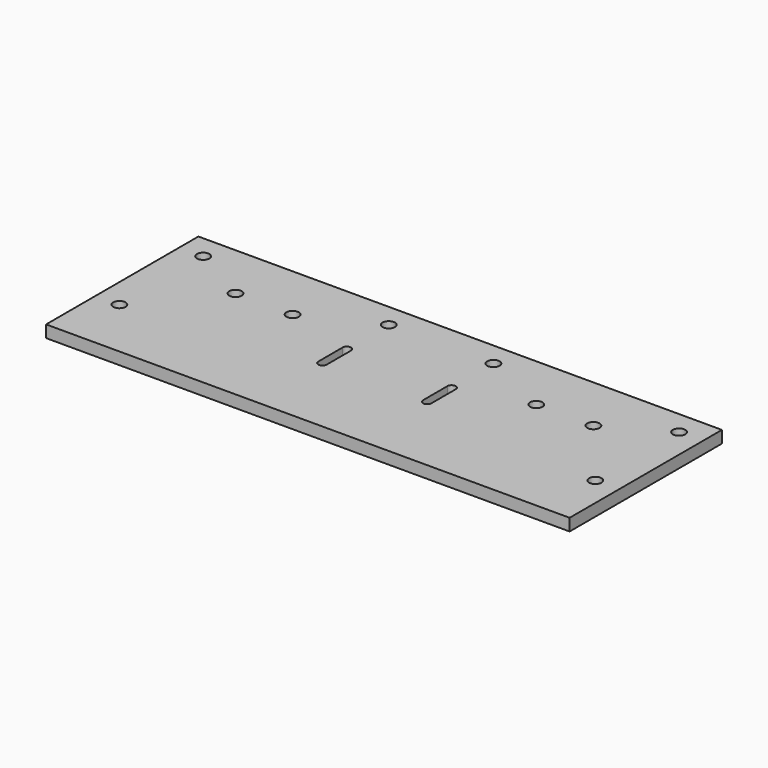
from build123d import *

# Parameters (mm, degrees)
SKETCH003_W     = 275
SKETCH003_H     = 100
PAD_DEPTH       = 6.35
SKETCH_R        = 3.25
POCKET_DEPTH    = 6.351
SKETCH004_R     = 3.25
POCKET001_DEPTH = 6.351
POCKET002_DEPTH = 6.351
SKETCH007_R     = 3.25
POCKET003_DEPTH = 6.351


with BuildPart() as part:
    # Sketch003 → Pad (new body)
    with BuildSketch(Plane(origin=(0, 0, 0), x_dir=(1, 0, 0), z_dir=(0, 0, -1))):
        with Locations((137.5, 50)):
            Rectangle(SKETCH003_W, SKETCH003_H)
    extrude(amount=PAD_DEPTH)

    # Sketch → Pocket (cut, through all)
    with BuildSketch(Plane.XY):
        with Locations((110, -12.5)):
            Circle(SKETCH_R)
        with Locations((165, -12.5)):
            Circle(SKETCH_R)
    extrude(amount=-POCKET_DEPTH, mode=Mode.SUBTRACT)

    # Sketch004 → Pocket001 (cut, through all)
    with BuildSketch(Plane.XY):
        with Locations((12.5, -12.5)):
            Circle(SKETCH004_R)
        with Locations((12.5, -67.5)):
            Circle(SKETCH004_R)
        with Locations((262.5, -12.5)):
            Circle(SKETCH004_R)
        with Locations((262.5, -67.5)):
            Circle(SKETCH004_R)
    extrude(amount=-POCKET001_DEPTH, mode=Mode.SUBTRACT)

    # Sketch005 → Pocket002 (cut, through all)
    with BuildSketch(Plane.XY):
        with BuildLine():
            ThreePointArc((112.2, -39.999985), (110, -37.8), (107.8, -39.999985))
            Line((107.8, -39.999985), (107.8, -55.999992))
            ThreePointArc((107.8, -55.999992), (110, -58.2), (112.2, -55.999992))
            Line((112.2, -39.999985), (112.2, -55.999992))
        make_face()
        with BuildLine():
            ThreePointArc((167.2, -39.999991), (165, -37.8), (162.8, -39.999991))
            Line((162.8, -39.999991), (162.8, -55.999999))
            ThreePointArc((162.8, -55.999999), (165, -58.2), (167.2, -55.999999))
            Line((167.2, -39.999991), (167.2, -55.999999))
        make_face()
    extrude(amount=-POCKET002_DEPTH, mode=Mode.SUBTRACT)

    # Sketch007 → Pocket003 (cut, through all)
    with BuildSketch(Plane.XY):
        with Locations((43.5, -30)):
            Circle(SKETCH007_R)
        with Locations((73.5, -30)):
            Circle(SKETCH007_R)
        with Locations((201.5, -30)):
            Circle(SKETCH007_R)
        with Locations((231.5, -30)):
            Circle(SKETCH007_R)
    extrude(amount=-POCKET003_DEPTH, mode=Mode.SUBTRACT)


solid = part.part
